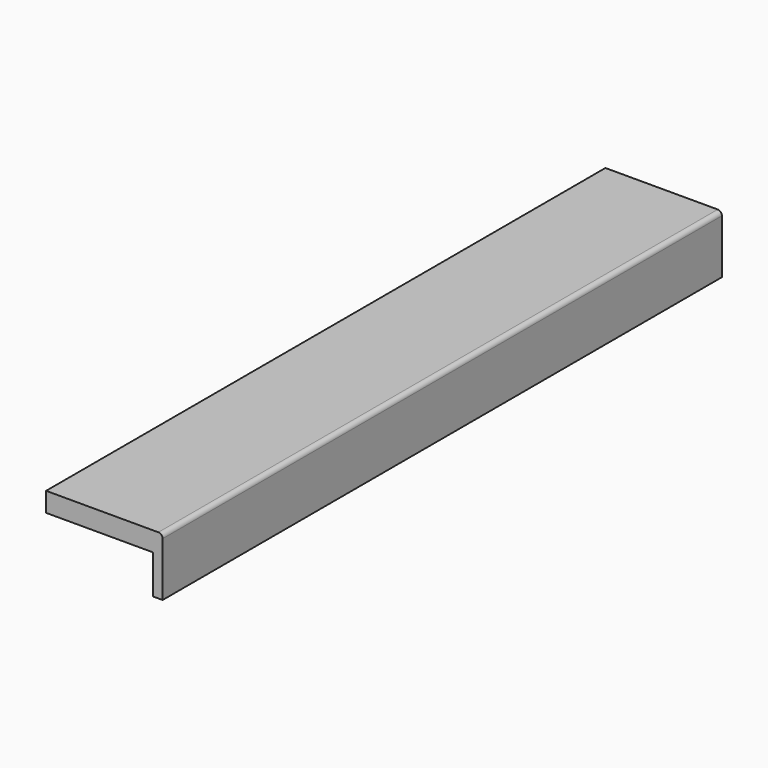
from build123d import *

# Parameters (mm, degrees)
F1_DEPTH = 1828.8


with BuildPart() as f1:
    # F0 (on Front) → F1 (new body)
    with BuildSketch(Plane.XZ):
        with BuildLine():
            Line((196.990829, 152.4), (-96.696671, 152.4))
            Line((-96.696671, 152.4), (-96.696671, 101.6))
            Line((-96.696671, 101.6), (182.703329, 101.6))
            Line((182.703329, 101.6), (182.703329, 0))
            Line((182.703329, 0), (208.103329, 0))
            Line((208.103329, 0), (208.103329, 141.2875))
            ThreePointArc((208.103329, 141.2875), (204.848553, 149.145224), (196.990829, 152.4))
        make_face()
    extrude(amount=F1_DEPTH)


solid = f1.part
